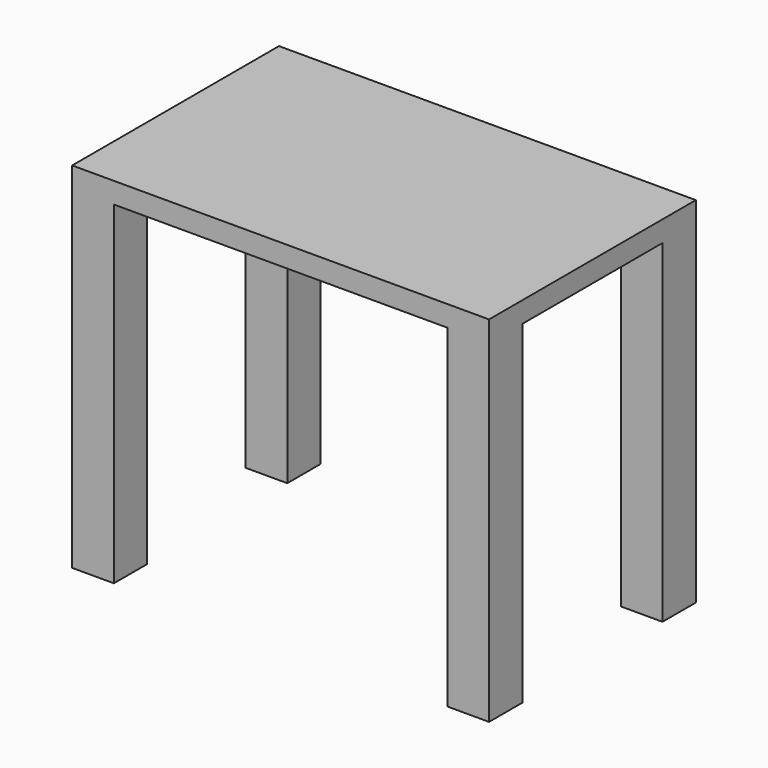
from build123d import *

# Parameters (mm, degrees)
F0_W     = 1000
F0_H     = 620
F1_DEPTH = 850
F2_W     = 1000
F2_H     = 420
F3_DEPTH = 800
F4_W     = 800
F4_H     = 620
F5_DEPTH = 800


with BuildPart() as f1:
    # F0 (on Top) → F1 (new body)
    with BuildSketch(Plane.XY):
        with Locations((455.56918, 277.985783)):
            Rectangle(F0_W, F0_H)
    extrude(amount=F1_DEPTH)

    # F2 (on Top) → F3 (cut)
    with BuildSketch(Plane.XY):
        with Locations((455.56918, 277.985783)):
            Rectangle(F2_W, F2_H)
    extrude(amount=F3_DEPTH, mode=Mode.SUBTRACT)

    # F4 (on Top) → F5 (cut)
    with BuildSketch(Plane.XY):
        with Locations((455.56918, 277.985783)):
            Rectangle(F4_W, F4_H)
    extrude(amount=F5_DEPTH, mode=Mode.SUBTRACT)


solid = f1.part
